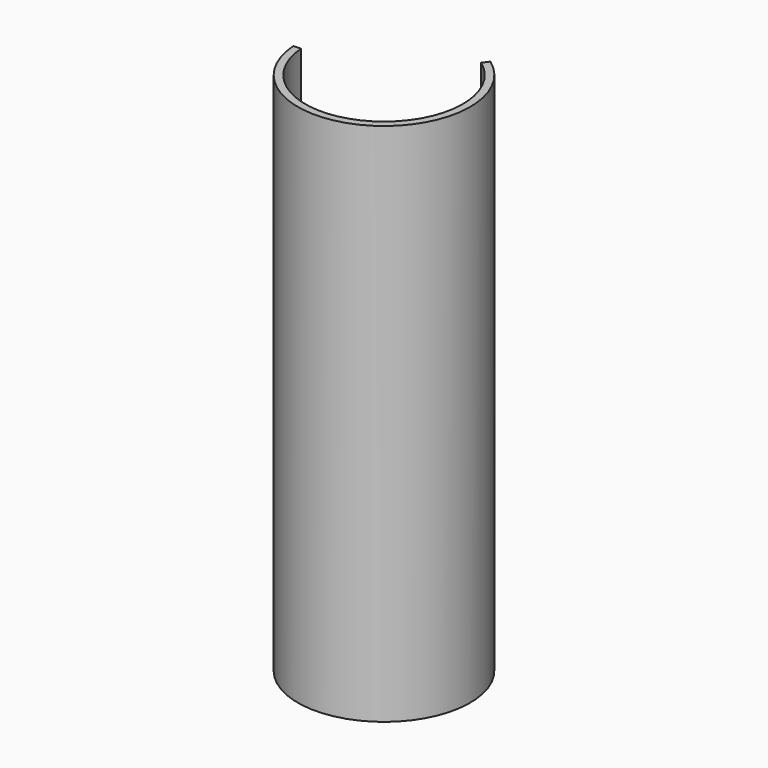
from build123d import *

# Parameters (mm, degrees)
CYLINDER072_R               = 42
CYLINDER072_DEPTH           = 297
CYLINDER073_W               = 46
CYLINDER073_H               = 280
CYLINDER073_ANGLE           = 230
CYLINDER073_PLACEMENT_ANGLE = 184


with BuildPart() as cylindre068:
    # Cylinder072 → Cylinder072 (new body)
    with BuildSketch(Plane.XY.offset(-207)):
        Circle(CYLINDER072_R)
    extrude(amount=CYLINDER072_DEPTH)


with BuildPart() as obj1:
    # Cylinder073 → Cylinder073 (revolve)
    with BuildSketch(Plane.XZ):
        with Locations((23, 140)):
            Rectangle(CYLINDER073_W, CYLINDER073_H)
    revolve(axis=Axis((0, 0, 0), (0, 0, 1)), revolution_arc=CYLINDER073_ANGLE)


with BuildPart() as obj1_1:
    # Cylinder073 placement: moved
    add(obj1.part.moved(Location((0, 0, -207))).rotate(Axis((0, 0, -207), (0, 0, 1)), CYLINDER073_PLACEMENT_ANGLE))

    # Cut041: cut Cylindre068
    add(cylindre068.part, mode=Mode.SUBTRACT)


with BuildPart() as obj1_2:
    # Cut041 placement: moved
    add(obj1_1.part.moved(Location((0, 0, 8))))


solid = obj1_2.part
